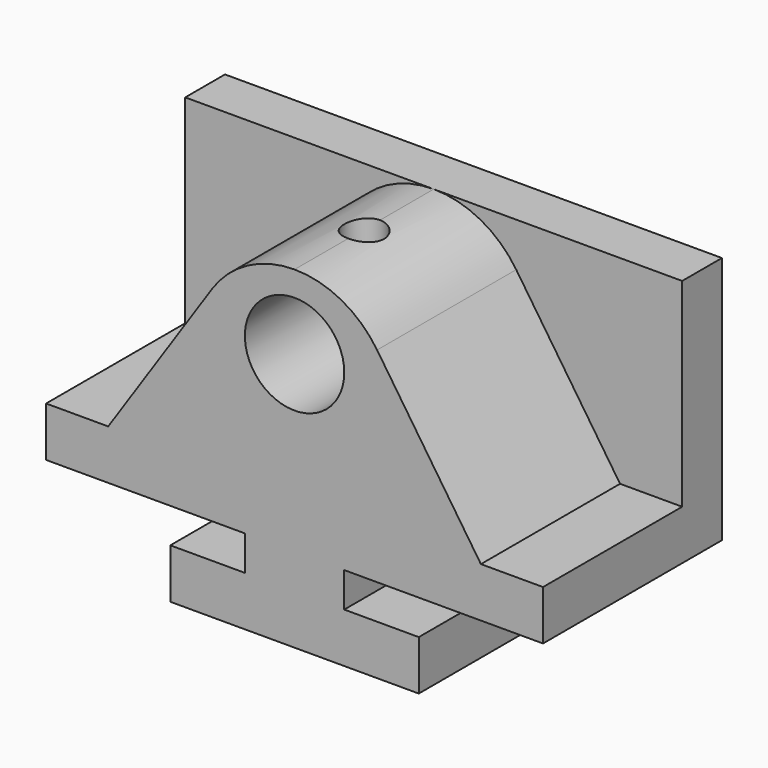
from build123d import *

# Parameters (mm, degrees)
F1_DEPTH = 57.15
F3_DEPTH = 44.45
F4_R     = 12.7
F5_DEPTH = 44.45
F6_R     = 5.08
F7_DEPTH = 25.4


with BuildPart() as f1:
    # F0 (on Front) → F1 (new body)
    with BuildSketch(Plane.XZ):
        Polygon((-31.75, 0), (0, 0), (31.75, 0), (31.75, 12.70301), (12.7, 12.70301), (12.7, 21.59), (63.5, 21.59), (63.5, 85.09), (0, 85.09), (-63.5, 85.09), (-63.5, 21.59), (-12.7, 21.59), (-12.7, 12.70301), (-31.75, 12.70301), align=None)
    extrude(amount=F1_DEPTH)

    # F2 (on face) → F3 (cut)
    with BuildSketch(Plane.XZ.offset(57.15)):
        with BuildLine():
            Line((-63.5, 85.09), (-63.5, 34.29))
            Line((-63.5, 34.29), (-47.625, 34.29))
            Line((-47.625, 34.29), (-21.093426, 73.840173))
            ThreePointArc((-21.093426, 73.840173), (-11.952941, 82.101765), (0, 85.09))
            Line((0, 85.09), (-63.5, 85.09))
        make_face()
        with BuildLine():
            Line((63.5, 85.09), (0, 85.09))
            ThreePointArc((0, 85.09), (11.952941, 82.101765), (21.093426, 73.840173))
            Line((21.093426, 73.840173), (47.625, 34.29))
            Line((47.625, 34.29), (63.5, 34.29))
            Line((63.5, 34.29), (63.5, 85.09))
        make_face()
    extrude(amount=-F3_DEPTH, mode=Mode.SUBTRACT)

    # F4 (on face) → F5 (cut)
    with BuildSketch(Plane.XZ.offset(57.15)):
        with Locations((0, 66.04)):
            Circle(F4_R)
    extrude(amount=-F5_DEPTH, mode=Mode.SUBTRACT)

    # F6 (on face) → F7 (cut)
    with BuildSketch(Plane.XY.offset(85.09)):
        with Locations((0, -34.925)):
            Circle(F6_R)
    extrude(amount=-F7_DEPTH, mode=Mode.SUBTRACT)


solid = f1.part
